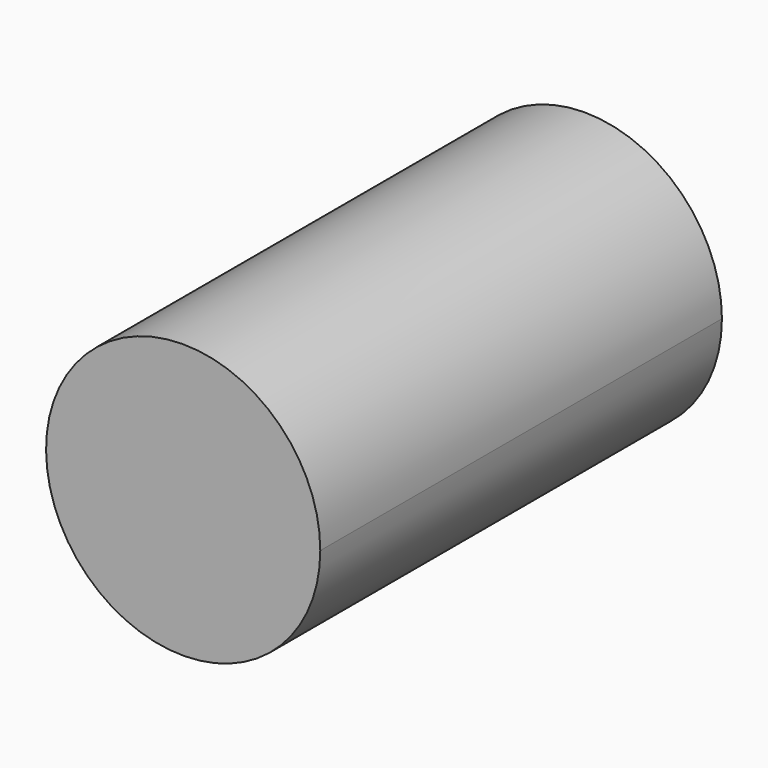
from build123d import *

# Parameters (mm, degrees)
F1_DEPTH = 130


with BuildPart() as f1:
    # F0 (on Front) → F1 (new body)
    with BuildSketch(Plane.XZ):
        with BuildLine():
            ThreePointArc((-7.5, 60.301297), (22.293497, 67.37302), (35.5, 95))
            ThreePointArc((35.5, 95), (-22.293497, 122.62698), (-7.5, 60.301297))
        make_face()
    extrude(amount=-F1_DEPTH)


solid = f1.part
